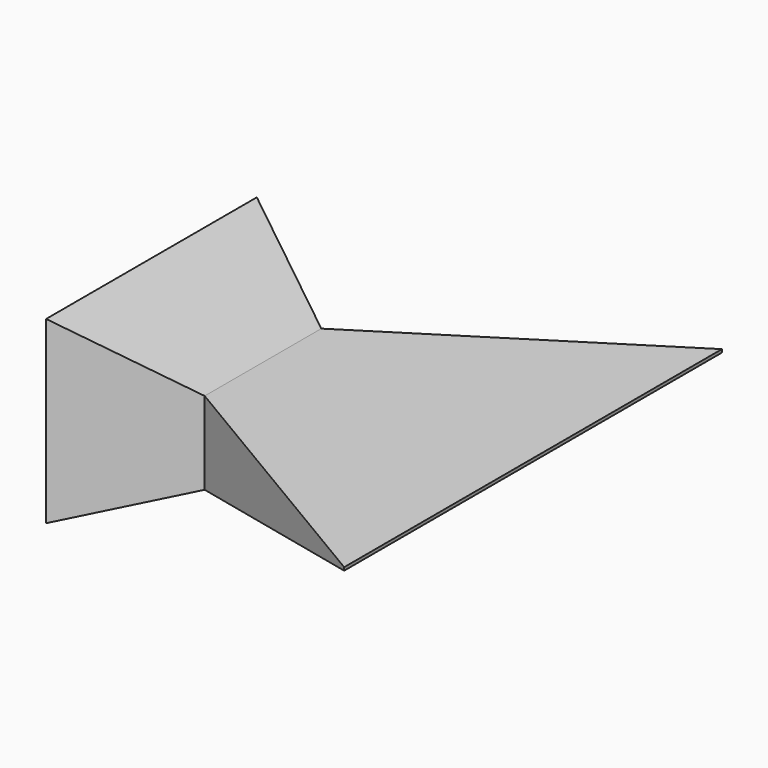
from build123d import *

# Parameters (mm, degrees)
F0_W      = 58.1599026918
F0_H      = 39.7032555193
F2_W      = 32.1918288246
F2_H      = 18.2420359924
F3_FACE_W = 32.1918288246
F3_FACE_H = 18.2420359924
F5_W      = 104.2548157275
F5_H      = 0.6828915793


with BuildPart() as f3:
    # F0 (on Right) → F3 section 0
    with BuildSketch(Plane.YZ):
        with Locations((-1.7169099301, 2.2534271702)):
            Rectangle(F0_W, F0_H)
    # F2 (on offset) → F3 section 1
    with BuildSketch(Plane.YZ.offset(25.4)):
        with Locations((-2.6826648973, 1.3949791901)):
            Rectangle(F2_W, F2_H)
    loft()

    # F3_face (on face) → F6 section 0
    with BuildSketch(Plane(origin=(25.4, -2.6826648973, 1.3949791901), x_dir=(0, 1, 0), z_dir=(1, 0, 0))):
        Rectangle(F3_FACE_W, F3_FACE_H)
    # F5 (on offset) → F6 section 1
    with BuildSketch(Plane.YZ.offset(76.2)):
        with Locations((8.3470065147, 3.575253184)):
            Rectangle(F5_W, F5_H)
    loft()


solid = f3.part
